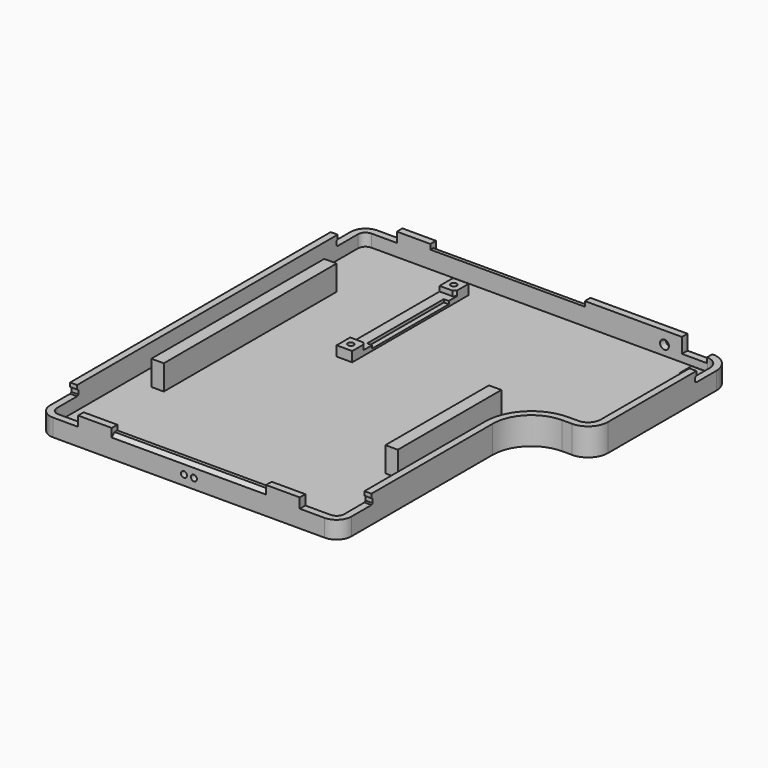
from build123d import *

# Parameters (mm, degrees)
PAD008_DEPTH    = 11
POCKET005_DEPTH = 9
SKETCH019_W     = 6.25
SKETCH019_H     = 58.5
PAD009_DEPTH    = 4
SKETCH020_W     = 6.25
SKETCH020_H     = 44.9
POCKET008_DEPTH = 2
SKETCH021_W     = 5
SKETCH021_H     = 86.8
SKETCH021_H_2   = 52
PAD010_DEPTH    = 10
SKETCH024_W     = 62
SKETCH024_H     = 2
POCKET011_DEPTH = 162.801
POCKET012_DEPTH = 4
SKETCH027_W     = 2.8
SKETCH027_H     = 2.4
SKETCH032_W     = 2.8
SKETCH032_H     = 1.6
SKETCH030_W     = 2.8
SKETCH030_H     = 2.4
SKETCH033_W     = 2.8
SKETCH033_H     = 1.6
SKETCH029_W     = 2.8
SKETCH029_H     = 2.4
SKETCH034_W     = 2.8
SKETCH034_H     = 1.6
SKETCH028_W     = 2.8
SKETCH028_H     = 2.4
SKETCH044_W     = 2.8
SKETCH044_H     = 1.6
CHAMFER_SIZE    = 1
SKETCH053_R     = 1.2
POCKET013_DEPTH = 4
SKETCH057_R     = 1.2
POCKET015_DEPTH = 3
SKETCH072_R     = 1.8
SKETCH072_W     = 10
SKETCH072_H     = 2
POCKET024_DEPTH = 3
SKETCH073_W     = 2
SKETCH073_H     = 38.5
POCKET025_DEPTH = 1.2
CHAMFER005_SIZE = 1.4


with BuildPart() as part:
    # Sketch015 → Pad008 (new body)
    with BuildSketch(Plane.XY):
        with BuildLine():
            Line((-54.5, 81.4), (80, 81.4))
            ThreePointArc((88, 73.4), (85.656854, 79.056854), (80, 81.4))
            Line((88, 73.4), (88, 19))
            ThreePointArc((80, 11), (85.656854, 13.343146), (88, 19))
            Line((76, 11), (80, 11))
            ThreePointArc((76, 11), (65.039845, 6.460155), (60.5, -4.5))
            Line((60.5, -75.4), (60.5, -4.5))
            ThreePointArc((54.5, -81.4), (58.742641, -79.642641), (60.5, -75.4))
            Line((54.5, -81.4), (-54.5, -81.4))
            ThreePointArc((-60.5, -75.4), (-58.742641, -79.642641), (-54.5, -81.4))
            Line((-60.5, -75.4), (-60.5, 75.4))
            ThreePointArc((-54.5, 81.4), (-58.742641, 79.642641), (-60.5, 75.4))
        make_face()
    extrude(amount=PAD008_DEPTH)

    # Sketch016 (on Face14 of Pad008) → Pocket005 (cut)
    with BuildSketch(Plane.XY.offset(11)):
        with BuildLine():
            Line((-54.7, 78.6), (80.2, 78.6))
            ThreePointArc((85.2, 73.6), (83.735534, 77.135534), (80.2, 78.6))
            Line((85.2, 73.6), (85.2, 18.8))
            ThreePointArc((80.2, 13.8), (83.735534, 15.264466), (85.2, 18.8))
            Line((76.2, 13.8), (80.2, 13.8))
            ThreePointArc((76.2, 13.8), (63.118525, 8.381475), (57.7, -4.7))
            Line((57.7, -75.6), (57.7, -4.7))
            ThreePointArc((54.7, -78.6), (56.82132, -77.72132), (57.7, -75.6))
            Line((54.7, -78.6), (-54.7, -78.6))
            ThreePointArc((-57.7, -75.6), (-56.82132, -77.72132), (-54.7, -78.6))
            Line((-57.7, -75.6), (-57.7, 75.6))
            ThreePointArc((-54.7, 78.6), (-56.82132, 77.72132), (-57.7, 75.6))
        make_face()
    extrude(amount=-POCKET005_DEPTH, mode=Mode.SUBTRACT)

    # Sketch019 (on Face27 of Pocket005) → Pad009 (join)
    with BuildSketch(Plane.XY.offset(2)):
        with Locations((-13.875, 43.25)):
            Rectangle(SKETCH019_W, SKETCH019_H)
        with Locations((81.875, 43.25)):
            Rectangle(SKETCH019_W, SKETCH019_H)
    extrude(amount=PAD009_DEPTH)

    # Sketch020 (on Face37 of Pad009) → Pocket008 (cut)
    with BuildSketch(Plane.XY.offset(6)):
        with Locations((-13.875, 43.25)):
            Rectangle(SKETCH020_W, SKETCH020_H)
        with Locations((81.875, 43.25)):
            Rectangle(SKETCH020_W, SKETCH020_H)
    extrude(amount=-POCKET008_DEPTH, mode=Mode.SUBTRACT)

    # Sketch021 (on Face27 of Pocket008) → Pad010 (join)
    with BuildSketch(Plane.XY.offset(2)):
        with Locations((-47, 5)):
            Rectangle(SKETCH021_W, SKETCH021_H)
        with Locations((47, -12.4)):
            Rectangle(SKETCH021_W, SKETCH021_H_2)
    extrude(amount=PAD010_DEPTH)

    # Sketch024 (on Face6 of Pad010) → Pocket011 (cut, through all)
    with BuildSketch(Plane.XZ.offset(81.4)):
        with Locations((0, 10)):
            Rectangle(SKETCH024_W, SKETCH024_H)
    extrude(amount=-POCKET011_DEPTH, mode=Mode.SUBTRACT)

    # Sketch025 (on Face5 of Pocket011) → Pocket012 (cut)
    with BuildSketch(Plane.XY.offset(11)):
        with BuildLine():
            Line((-54.5, 81.4), (-44.5, 81.4))
            Line((-44.5, 81.4), (-44.5, 78.6))
            Line((-54.7, 78.6), (-44.5, 78.6))
            ThreePointArc((-54.7, 78.6), (-56.82132, 77.72132), (-57.7, 75.6))
            Line((-57.7, 65.4), (-57.7, 75.6))
            Line((-57.7, 65.4), (-60.5, 65.4))
            Line((-60.5, 65.4), (-60.5, 75.4))
            ThreePointArc((-54.5, 81.4), (-58.742641, 79.642641), (-60.5, 75.4))
        make_face()
        with BuildLine():
            Line((70, 81.4), (80, 81.4))
            ThreePointArc((88, 73.4), (85.656854, 79.056854), (80, 81.4))
            Line((88, 73.4), (88, 63.4))
            Line((88, 63.4), (85.2, 63.4))
            Line((85.2, 73.4), (85.2, 63.4))
            ThreePointArc((85.2, 73.4), (83.676955, 77.076955), (80, 78.6))
            Line((70, 78.6), (80, 78.6))
            Line((70, 78.6), (70, 81.4))
        make_face()
        with BuildLine():
            Line((-60.5, -65.4), (-57.7, -65.4))
            Line((-57.7, -75.6), (-57.7, -65.4))
            ThreePointArc((-57.7, -75.6), (-56.82132, -77.72132), (-54.7, -78.6))
            Line((-44.5, -78.6), (-54.7, -78.6))
            Line((-44.5, -78.6), (-44.5, -81.4))
            Line((-44.5, -81.4), (-54.5, -81.4))
            ThreePointArc((-60.5, -75.4), (-58.742641, -79.642641), (-54.5, -81.4))
            Line((-60.5, -75.4), (-60.5, -65.4))
        make_face()
        with BuildLine():
            Line((57.7, -65.4), (60.5, -65.4))
            Line((60.5, -65.4), (60.5, -75.4))
            ThreePointArc((54.5, -81.4), (58.742641, -79.642641), (60.5, -75.4))
            Line((54.5, -81.4), (44.5, -81.4))
            Line((44.5, -81.4), (44.5, -78.6))
            Line((54.7, -78.6), (44.5, -78.6))
            ThreePointArc((54.7, -78.6), (56.82132, -77.72132), (57.7, -75.6))
            Line((57.7, -65.4), (57.7, -75.6))
        make_face()
    extrude(amount=-POCKET012_DEPTH, mode=Mode.SUBTRACT)

    # Sketch027 (on Face35 of Pocket012) → SubtractiveLoft section 0
    with BuildSketch(Plane.XZ.offset(65.4)):
        with Locations((-59.1, 8.2)):
            Rectangle(SKETCH027_W, SKETCH027_H)
    # Sketch032 (on DatumPlane) → SubtractiveLoft section 1
    with BuildSketch(Plane.XZ.offset(64.8)):
        with Locations((-59.1, 8.2)):
            Rectangle(SKETCH032_W, SKETCH032_H)
    loft(mode=Mode.SUBTRACT)

    # Sketch030 (on Face35 of Pocket012) → SubtractiveLoft001 section 0
    with BuildSketch(Plane.XZ.offset(65.4)):
        with Locations((59.1, 8.2)):
            Rectangle(SKETCH030_W, SKETCH030_H)
    # Sketch033 (on DatumPlane) → SubtractiveLoft001 section 1
    with BuildSketch(Plane.XZ.offset(64.8)):
        with Locations((59.1, 8.2)):
            Rectangle(SKETCH033_W, SKETCH033_H)
    loft(mode=Mode.SUBTRACT)

    # Sketch029 → SubtractiveLoft002 section 0
    with BuildSketch(Plane(origin=(0, 65.4, 0), x_dir=(-1, 0, 0), z_dir=(0, 1, 0))):
        with Locations((59.1, 8.2)):
            Rectangle(SKETCH029_W, SKETCH029_H)
    # Sketch034 (on DatumPlane) → SubtractiveLoft002 section 1
    with BuildSketch(Plane(origin=(0, 64.8, 0), x_dir=(-1, 0, 0), z_dir=(0, 1, 0))):
        with Locations((59.1, 8.2)):
            Rectangle(SKETCH034_W, SKETCH034_H)
    loft(mode=Mode.SUBTRACT)

    # Sketch028 → SubtractiveLoft003 section 0
    with BuildSketch(Plane(origin=(0, 63.4, 0), x_dir=(-1, 0, 0), z_dir=(0, 1, 0))):
        with Locations((-86.6, 8.2)):
            Rectangle(SKETCH028_W, SKETCH028_H)
    # Sketch044 (on DatumPlane) → SubtractiveLoft003 section 1
    with BuildSketch(Plane(origin=(0, 62.8, 0), x_dir=(-1, 0, 0), z_dir=(0, 1, 0))):
        with Locations((-86.6, 8.2)):
            Rectangle(SKETCH044_W, SKETCH044_H)
    loft(mode=Mode.SUBTRACT)

    # Chamfer
    chamfer_edges = [part.edges().sort_by_distance(p)[0] for p in [
        (-10.75, 20.8, 5),
        (-10.75, 65.7, 5),
        (78.75, 65.7, 5),
        (78.75, 20.8, 5),
    ]]
    chamfer(chamfer_edges, length=CHAMFER_SIZE)

    # Sketch053 (on Face74 of Chamfer) → Pocket013 (cut)
    with BuildSketch(Plane.XY.offset(6)):
        with Locations((-14, 69.1)):
            Circle(SKETCH053_R)
        with Locations((-14, 17.4)):
            Circle(SKETCH053_R)
        with Locations((82, 17.4)):
            Circle(SKETCH053_R)
        with Locations((82, 69.1)):
            Circle(SKETCH053_R)
    extrude(amount=-POCKET013_DEPTH, mode=Mode.SUBTRACT)

    # Sketch057 (on Face87 of Pocket013) → Pocket015 (cut)
    with BuildSketch(Plane.XZ.offset(81.4)):
        with Locations((-2, 4)):
            Circle(SKETCH057_R)
        with Locations((2, 4)):
            Circle(SKETCH057_R)
    extrude(amount=-POCKET015_DEPTH, mode=Mode.SUBTRACT)

    # Sketch072 (on Face19 of Pocket015) → Pocket024 (cut)
    with BuildSketch(Plane.XZ.offset(-78.6)):
        with Locations((63, 6)):
            Circle(SKETCH072_R)
        with Locations((75, 6)):
            Rectangle(SKETCH072_W, SKETCH072_H)
    extrude(amount=-POCKET024_DEPTH, mode=Mode.SUBTRACT)

    # Sketch073 (on Face85 of Pocket024) → Pocket025 (cut)
    with BuildSketch(Plane.XY.offset(4)):
        with Locations((-11.75, 43.25)):
            Rectangle(SKETCH073_W, SKETCH073_H)
    extrude(amount=-POCKET025_DEPTH, mode=Mode.SUBTRACT)

    # Chamfer005
    chamfer005_edges = [part.edges().sort_by_distance(p)[0] for p in [
        (0, -81.4, 9),
        (0, 81.4, 9),
    ]]
    chamfer(chamfer005_edges, length=CHAMFER005_SIZE)


solid = part.part
